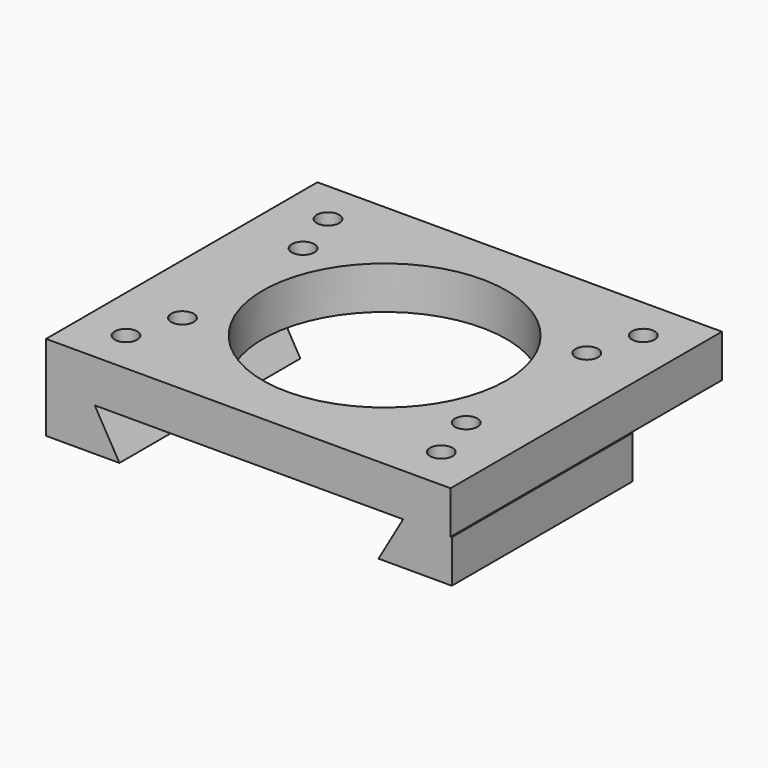
from build123d import *

# Parameters (mm, degrees)
SKETCH003_W   = 322
SKETCH003_H   = 270
SKETCH003_R   = 97
SKETCH003_R_2 = 9
PAD003_DEPTH  = 34
PAD004_DEPTH  = 180
SKETCH005_R   = 9
HOLE_DEPTH    = 34


with BuildPart() as part:
    # Sketch003 (on Face1 of ShapeBinder) → Pad003 (new body)
    with BuildSketch(Plane(origin=(0, 0, 0), x_dir=(1, 0, 0), z_dir=(0, 0, -1))):
        with Locations((-0.5, 0)):
            Rectangle(SKETCH003_W, SKETCH003_H)
        Circle(SKETCH003_R, mode=Mode.SUBTRACT)
        with Locations((-125.5, 100.5)):
            Circle(SKETCH003_R_2, mode=Mode.SUBTRACT)
        with Locations((125.5, 100.5)):
            Circle(SKETCH003_R_2, mode=Mode.SUBTRACT)
        with Locations((-125.5, -100.5)):
            Circle(SKETCH003_R_2, mode=Mode.SUBTRACT)
        with Locations((125.5, -100.5)):
            Circle(SKETCH003_R_2, mode=Mode.SUBTRACT)
    extrude(amount=PAD003_DEPTH)

    # Sketch004 (on Face1 of Pad003) → Pad004 (join)
    with BuildSketch(Plane.XZ.offset(135)):
        Polygon((-161.5, -34), (-122.75, -34), (-103.120091, -68), (-161.5, -68), align=None)
    pad004 = extrude(amount=-PAD004_DEPTH)

    # Mirrored: Pad004 across Sketch004 V_Axis
    add(pad004.mirror(Plane(origin=(0, -135, 0), x_dir=(0, -1, 0), z_dir=(1, 0, 0))))

    # Sketch005 (on Face6 of Mirrored) → Hole (cut)
    with BuildSketch(Plane(origin=(0, 0, -34), x_dir=(1, 0, 0), z_dir=(0, 0, -1))):
        with Locations((-112.935045, 60)):
            Circle(SKETCH005_R)
        with Locations((-112.935045, -60)):
            Circle(SKETCH005_R)
        with Locations((112.935045, 60)):
            Circle(SKETCH005_R)
        with Locations((112.935045, -60)):
            Circle(SKETCH005_R)
    extrude(amount=-HOLE_DEPTH, mode=Mode.SUBTRACT)


solid = part.part
